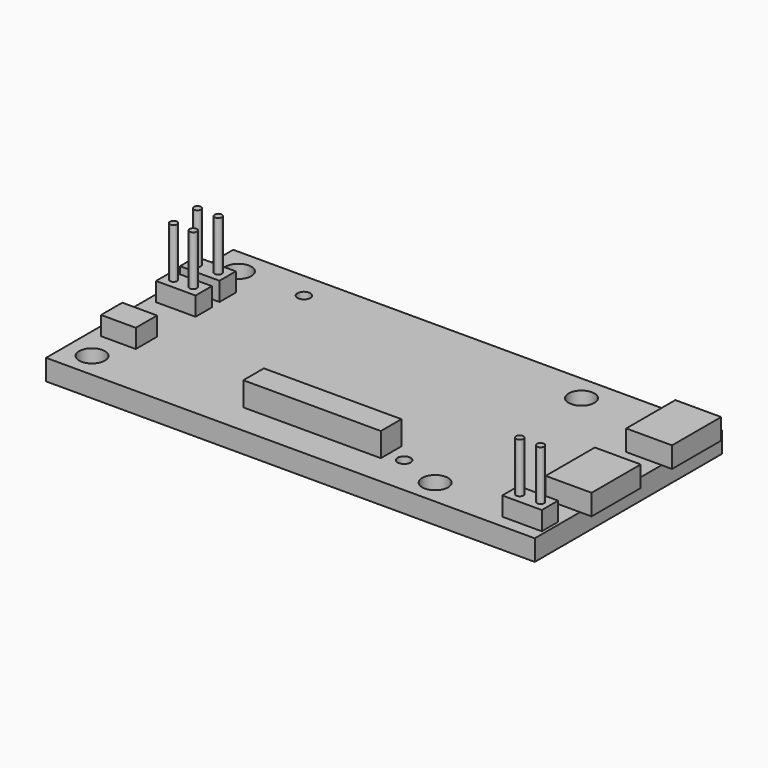
from build123d import *

# Parameters (mm, degrees)
F1_W      = 59.69
F1_H      = 28.575
F1_R      = 1.5748
F1_R_2    = 0.79375
F2_DEPTH  = 2.54
F3_W      = 5.600192
F3_H      = 7.500214
F4_DEPTH  = 2.54
F5_W      = 16.800018
F5_H      = 3.139999
F6_DEPTH  = 2.921
F7_W      = 4.826
F7_H      = 2.4892
F7_W_2    = 4.2418
F7_H_2    = 3.2512
F8_DEPTH  = 2.286
F9_R      = 0.4445
F10_DEPTH = 6.096
F11_W     = 35.306
F11_H     = 10.16
F12_DEPTH = 2.286
F13_R     = 0.4445
F14_DEPTH = 5.969


with BuildPart() as f2:
    # F1 (on Top) → F2 (new body)
    with BuildSketch(Plane.XY):
        with Locations((-0.701548, 0)):
            Rectangle(F1_W, F1_H)
        with Locations((-27.371548, -11.2395)):
            Circle(F1_R, mode=Mode.SUBTRACT)
        with Locations((9.331452, -9.4615)):
            Circle(F1_R_2, mode=Mode.SUBTRACT)
        with Locations((14.538452, -11.2395)):
            Circle(F1_R, mode=Mode.SUBTRACT)
        with Locations((-27.371548, 11.1125)):
            Circle(F1_R, mode=Mode.SUBTRACT)
        with Locations((-19.370548, 11.1125)):
            Circle(F1_R_2, mode=Mode.SUBTRACT)
        with Locations((14.538452, 11.1125)):
            Circle(F1_R, mode=Mode.SUBTRACT)
    extrude(amount=F2_DEPTH)

    # F3 (on face) → F4 (join)
    with BuildSketch(Plane.XY.offset(2.54)):
        with Locations((27.619452, 8.8265)):
            Rectangle(F3_W, F3_H)
        with Locations((27.746452, -3.6195)):
            Rectangle(F3_W, F3_H)
    extrude(amount=F4_DEPTH)

    # F5 (on face) → F6 (join)
    with BuildSketch(Plane.XY.offset(2.54)):
        with Locations((-1.058545, -8.963304)):
            Rectangle(F5_W, F5_H)
    extrude(amount=F6_DEPTH)

    # F7 (on face) → F8 (join)
    with BuildSketch(Plane.XY.offset(2.54)):
        with Locations((26.349452, -11.4935)):
            Rectangle(F7_W, F7_H)
        with Locations((-27.244548, 6.2865)):
            Rectangle(F7_W, F7_H)
        with Locations((-27.117548, 2.4765)):
            Rectangle(F7_W, F7_H)
        with Locations((-27.117548, -5.9055)):
            Rectangle(F7_W_2, F7_H_2)
    extrude(amount=F8_DEPTH)

    # F9 (on face) → F10 (join)
    with BuildSketch(Plane.XY.offset(4.826)):
        with Locations((-28.514548, 6.2865)):
            Circle(F9_R)
        with Locations((-25.974548, 6.2865)):
            Circle(F9_R)
        with Locations((-28.387548, 2.4765)):
            Circle(F9_R)
        with Locations((-25.974548, 2.4765)):
            Circle(F9_R)
        with Locations((27.619452, -11.4935)):
            Circle(F9_R)
        with Locations((25.079452, -11.4935)):
            Circle(F9_R)
    extrude(amount=F10_DEPTH)

    # F11 (on face) → F12 (join)
    with BuildSketch(Plane.XY):
        with Locations((-5.400548, 2.4765)):
            Rectangle(F11_W, F11_H)
    extrude(amount=-F12_DEPTH)

    # F13 (on face) → F14 (join)
    with BuildSketch(Plane(origin=(0, 0, -2.286), x_dir=(1, 0, 0), z_dir=(0, 0, -1))):
        with Locations((-21.783548, 1.3335)):
            Circle(F13_R)
        with Locations((-19.243548, 1.3335)):
            Circle(F13_R)
        with Locations((-16.703548, 1.3335)):
            Circle(F13_R)
        with Locations((-14.163548, 1.3335)):
            Circle(F13_R)
        with Locations((-11.623548, 1.3335)):
            Circle(F13_R)
        with Locations((-9.083548, 1.3335)):
            Circle(F13_R)
        with Locations((-6.543548, 1.3335)):
            Circle(F13_R)
        with Locations((-4.003548, 1.3335)):
            Circle(F13_R)
        with Locations((-1.463548, 1.3335)):
            Circle(F13_R)
        with Locations((1.076452, 1.3335)):
            Circle(F13_R)
        with Locations((3.616452, 1.3335)):
            Circle(F13_R)
        with Locations((6.156452, 1.3335)):
            Circle(F13_R)
        with Locations((8.696452, 1.3335)):
            Circle(F13_R)
        with Locations((11.236452, 1.3335)):
            Circle(F13_R)
        with Locations((-21.783548, -1.219218)):
            Circle(F13_R)
        with Locations((-19.243548, -1.219218)):
            Circle(F13_R)
        with Locations((-16.703548, -1.219218)):
            Circle(F13_R)
        with Locations((-14.163548, -1.219218)):
            Circle(F13_R)
        with Locations((-11.623548, -1.219218)):
            Circle(F13_R)
        with Locations((-9.083548, -1.219218)):
            Circle(F13_R)
        with Locations((-6.543548, -1.219218)):
            Circle(F13_R)
        with Locations((-4.003548, -1.219218)):
            Circle(F13_R)
        with Locations((-1.463548, -1.219218)):
            Circle(F13_R)
        with Locations((1.076452, -1.219218)):
            Circle(F13_R)
        with Locations((3.616452, -1.219218)):
            Circle(F13_R)
        with Locations((6.156452, -1.219218)):
            Circle(F13_R)
        with Locations((8.696452, -1.219218)):
            Circle(F13_R)
        with Locations((11.236452, -1.219218)):
            Circle(F13_R)
        with Locations((-21.783548, -3.771936)):
            Circle(F13_R)
        with Locations((-19.243548, -3.771936)):
            Circle(F13_R)
        with Locations((-16.703548, -3.771936)):
            Circle(F13_R)
        with Locations((-14.163548, -3.771936)):
            Circle(F13_R)
        with Locations((-11.623548, -3.771936)):
            Circle(F13_R)
        with Locations((-9.083548, -3.771936)):
            Circle(F13_R)
        with Locations((-6.543548, -3.771936)):
            Circle(F13_R)
        with Locations((-4.003548, -3.771936)):
            Circle(F13_R)
        with Locations((-1.463548, -3.771936)):
            Circle(F13_R)
        with Locations((1.076452, -3.771936)):
            Circle(F13_R)
        with Locations((3.616452, -3.771936)):
            Circle(F13_R)
        with Locations((6.156452, -3.771936)):
            Circle(F13_R)
        with Locations((8.696452, -3.771936)):
            Circle(F13_R)
        with Locations((11.236452, -3.771936)):
            Circle(F13_R)
        with Locations((-21.783548, -6.324655)):
            Circle(F13_R)
        with Locations((-19.243548, -6.324655)):
            Circle(F13_R)
        with Locations((-16.703548, -6.324655)):
            Circle(F13_R)
        with Locations((-14.163548, -6.324655)):
            Circle(F13_R)
        with Locations((-11.623548, -6.324655)):
            Circle(F13_R)
        with Locations((-9.083548, -6.324655)):
            Circle(F13_R)
        with Locations((-6.543548, -6.324655)):
            Circle(F13_R)
        with Locations((-4.003548, -6.324655)):
            Circle(F13_R)
        with Locations((-1.463548, -6.324655)):
            Circle(F13_R)
        with Locations((1.076452, -6.324655)):
            Circle(F13_R)
        with Locations((3.616452, -6.324655)):
            Circle(F13_R)
        with Locations((6.156452, -6.324655)):
            Circle(F13_R)
        with Locations((8.696452, -6.324655)):
            Circle(F13_R)
        with Locations((11.236452, -6.324655)):
            Circle(F13_R)
    extrude(amount=F14_DEPTH)


solid = f2.part
